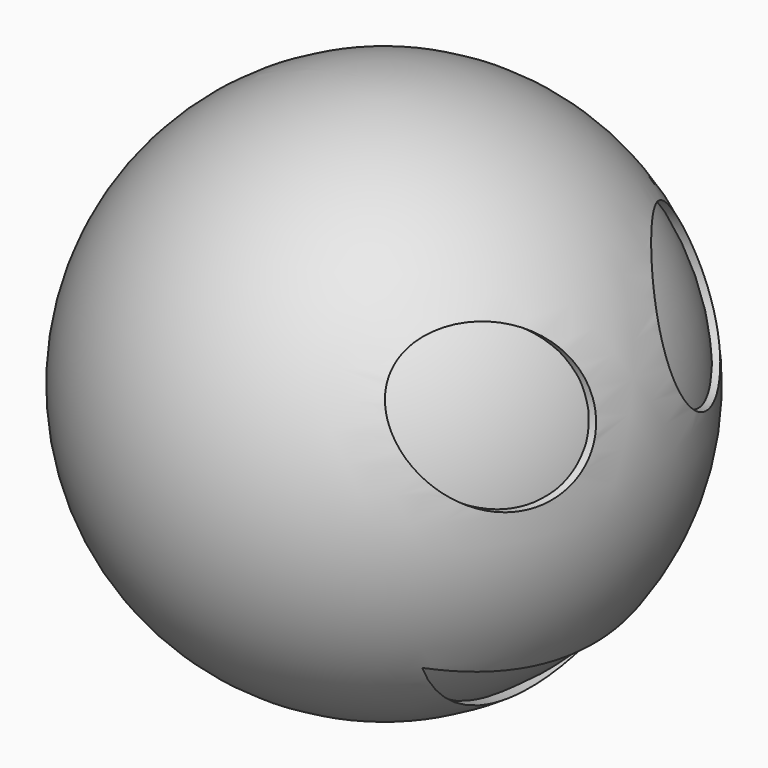
from build123d import *

# Parameters (mm, degrees)
F3_R      = 13.98431
F4_DEPTH  = 25.4
F9_R      = 1.374935
F10_DEPTH = 2.54


with BuildPart() as f1:
    # F0 (on Front) → F1 (revolve)
    with BuildSketch(Plane.XZ):
        with BuildLine():
            Line((0, -50.8), (0, 50.8))
            ThreePointArc((0, 50.8), (-50.8, 0), (0, -50.8))
        make_face()
    revolve(axis=Axis((0, 0, 0), (0, 0, -1)))

    # F3 (on offset) → F4 (cut)
    with BuildSketch(Plane.YZ.offset(50.8)):
        with Locations((-22.758303, 16.584305)):
            Circle(F3_R)
        with BuildLine():
            ThreePointArc((30.48, -25.4), (0, -30.857962), (-30.48, -25.4))
            ThreePointArc((-30.48, -25.4), (0, -42.259776), (30.48, -25.4))
        make_face()
        with Locations((22.758303, 16.584305)):
            Circle(F3_R)
    extrude(amount=-F4_DEPTH, mode=Mode.SUBTRACT)


with BuildPart() as f6:
    # F5 (on Right) → F6 (revolve)
    with BuildSketch(Plane.YZ):
        with BuildLine():
            Line((0, -49.53), (0, 49.53))
            ThreePointArc((0, 49.53), (-49.53, 0), (0, -49.53))
        make_face()
    revolve(axis=Axis((0, 0, 0), (0, 0, -1)))


with BuildPart() as f10:
    # F9 (on plane+point) → F10 (new body)
    with BuildSketch(Plane.XY.offset(-50.8)):
        Circle(F9_R)
    extrude(amount=-F10_DEPTH)


solid = Compound([f1.part, f6.part, f10.part])
